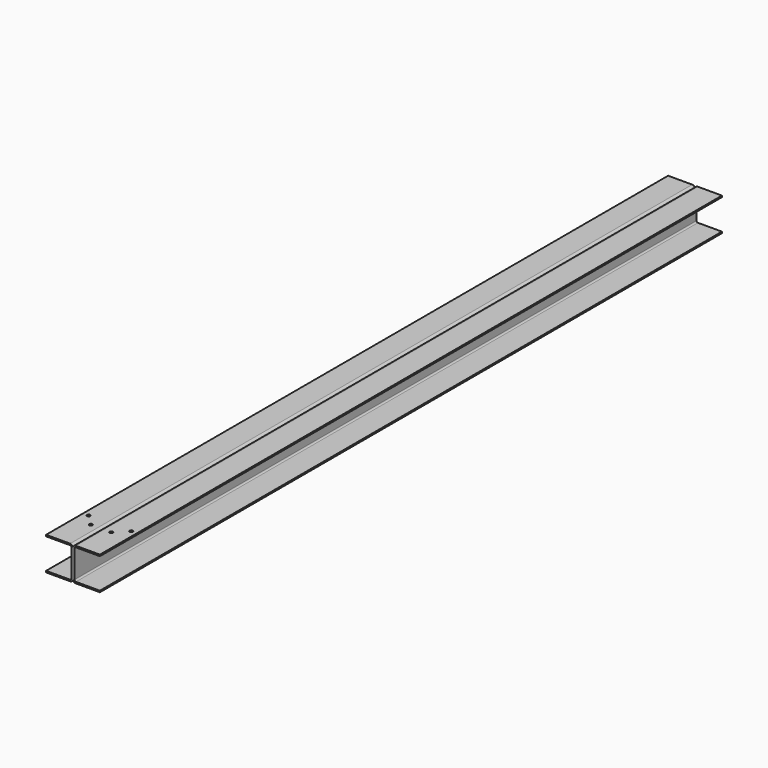
from build123d import *

# Parameters (mm, degrees)
F1_DEPTH = 2168
F3_R     = 4.5
F4_DEPTH = 4


with BuildPart() as f1:
    # F0 (on Front) → F1 (new body)
    with BuildSketch(Plane.XZ):
        with BuildLine():
            Line((0, 38.25), (0, -38.25))
            ThreePointArc((0, -38.25), (2.343146, -43.906854), (8, -46.25))
            Line((8, -46.25), (75, -46.25))
            Line((75, -46.25), (75, -42.25))
            Line((75, -42.25), (8, -42.25))
            ThreePointArc((8, -42.25), (5.171573, -41.078427), (4, -38.25))
            Line((4, -38.25), (4, 38.25))
            ThreePointArc((4, 38.25), (5.171573, 41.078427), (8, 42.25))
            Line((8, 42.25), (75, 42.25))
            Line((75, 42.25), (75, 46.25))
            Line((75, 46.25), (8, 46.25))
            ThreePointArc((8, 46.25), (2.343146, 43.906854), (0, 38.25))
        make_face()
        with BuildLine():
            Line((-75, -42.25), (-75, -46.25))
            Line((-75, -46.25), (-8, -46.25))
            ThreePointArc((-8, -46.25), (-2.343146, -43.906854), (0, -38.25))
            Line((0, -38.25), (0, 38.25))
            ThreePointArc((0, 38.25), (-2.343146, 43.906854), (-8, 46.25))
            Line((-8, 46.25), (-75, 46.25))
            Line((-75, 46.25), (-75, 42.25))
            Line((-75, 42.25), (-8, 42.25))
            ThreePointArc((-8, 42.25), (-5.171573, 41.078427), (-4, 38.25))
            Line((-4, 38.25), (-4, -38.25))
            ThreePointArc((-4, -38.25), (-5.171573, -41.078427), (-8, -42.25))
            Line((-8, -42.25), (-75, -42.25))
        make_face()
    extrude(amount=-F1_DEPTH)

    # F3 (on offset) → F4 (cut)
    with BuildSketch(Plane.XY.offset(46.25)):
        with BuildLine():
            ThreePointArc((63.892, 129), (59.392, 133.5), (54.892, 129))
            ThreePointArc((54.892, 129), (59.392, 124.5), (63.892, 129))
        make_face()
        with BuildLine():
            Line((28.392, 98), (28.392, 93.5))
            ThreePointArc((28.392, 93.5), (31.573981, 94.818019), (32.892, 98))
            ThreePointArc((32.892, 98), (31.573981, 101.181981), (28.392, 102.5))
            Line((28.392, 102.5), (28.392, 98))
        make_face()
        with BuildLine():
            ThreePointArc((28.392, 102.5), (23.892, 98), (28.392, 93.5))
            Line((28.392, 93.5), (28.392, 98))
            Line((28.392, 98), (28.392, 102.5))
        make_face()
        with Locations((-28.392, 98)):
            Circle(F3_R)
        with Locations((-59.392, 129)):
            Circle(F3_R)
    extrude(amount=-F4_DEPTH, mode=Mode.SUBTRACT)


solid = f1.part
